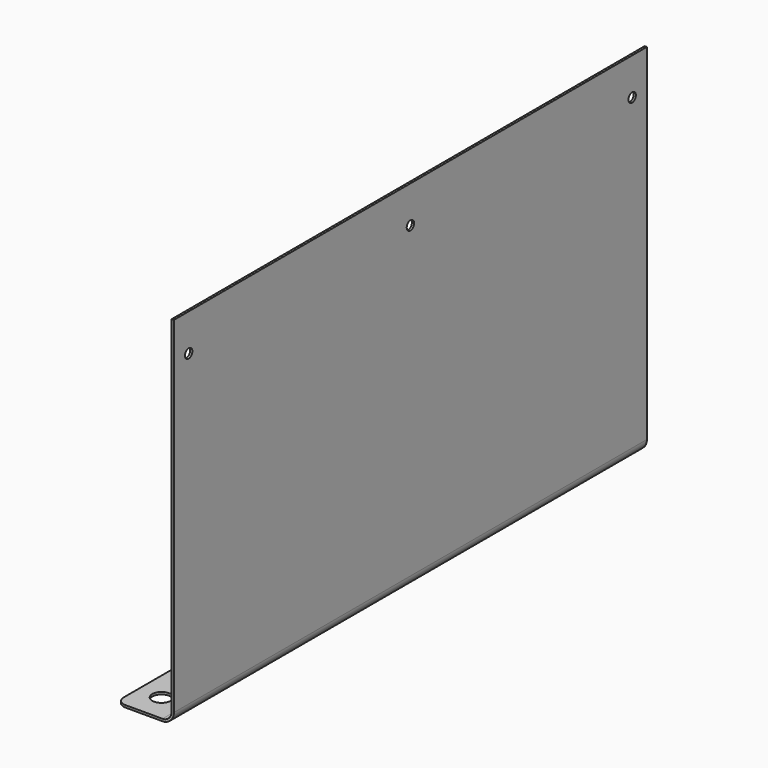
from build123d import *

# Parameters (mm, degrees)
F1_DEPTH = 320
F2_R     = 5
F3_DEPTH = 1.2
F4_R     = 5
F5_R     = 2.5
F6_DEPTH = 1.2


with BuildPart() as f1:
    # F0 (on Front) → F1 (new body)
    with BuildSketch(Plane.XZ):
        with BuildLine():
            Line((1.2, 0), (0, 0))
            Line((0, 0), (0, -187))
            ThreePointArc((0, -187), (-1.464466, -190.535534), (-5, -192))
            Line((-5, -192), (-30, -192))
            Line((-30, -192), (-30, -193.2))
            Line((-30, -193.2), (-5, -193.2))
            ThreePointArc((-5, -193.2), (-0.615938, -191.384062), (1.2, -187))
            Line((1.2, -187), (1.2, 0))
        make_face()
    extrude(amount=-F1_DEPTH)

    # F2 (on face) → F3 (cut, through all)
    with BuildSketch(Plane.XY.offset(-192)):
        with Locations((-17.5, 305)):
            Circle(F2_R)
        with Locations((-17.5, 15)):
            Circle(F2_R)
    extrude(amount=-F3_DEPTH, mode=Mode.SUBTRACT)

    # F4
    f4_edges = [f1.edges().sort_by_distance(p)[0] for p in [
        (-30, 320, -192.6),
        (-30, 0, -192.6),
    ]]
    fillet(f4_edges, radius=F4_R)

    # F5 (on face) → F6 (cut, through all)
    with BuildSketch(Plane.YZ.offset(1.2)):
        with Locations((10, -20)):
            Circle(F5_R)
        with Locations((160, -20)):
            Circle(F5_R)
        with Locations((310, -20)):
            Circle(F5_R)
    extrude(amount=-F6_DEPTH, mode=Mode.SUBTRACT)


solid = f1.part
